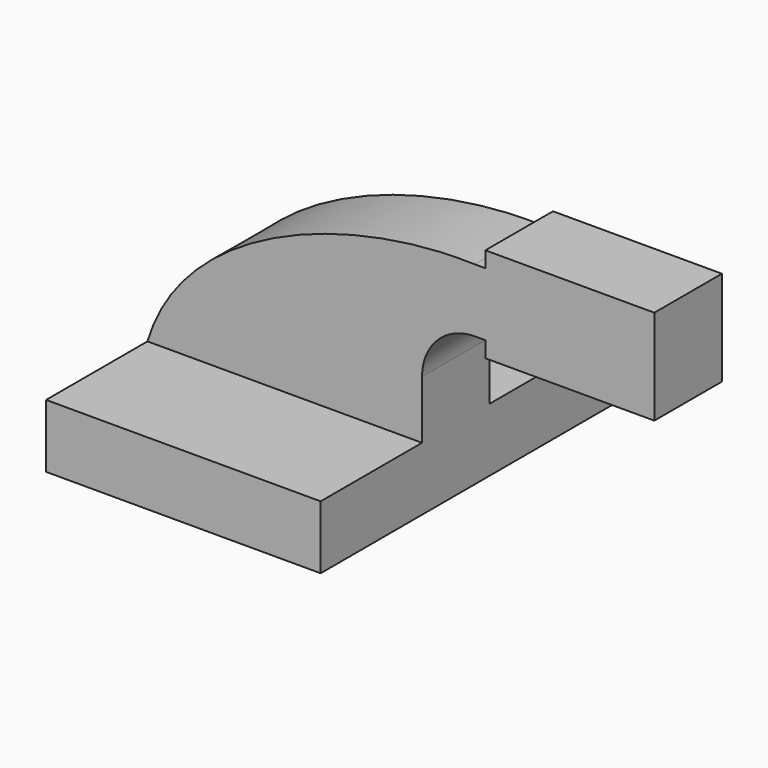
from build123d import *

# Parameters (mm, degrees)
F1_DEPTH = 63.5
F0_W     = 25.4
F0_H     = 19.05
F0_H_2   = 4.7498
F0_H_3   = 4.7752
F2_DEPTH = 25.4


with BuildPart() as f1:
    # F0 (on Front) → F1 (new body, symmetric)
    with BuildSketch(Plane.XZ):
        Polygon((22.225, 9.525), (-41.275, 9.525), (-41.275, -9.525), (41.275, -9.525), (41.275, 9.525), align=None)
    extrude(amount=F1_DEPTH, both=True)

    # F0 (on Front) → F2 (join)
    with BuildSketch(Plane.XZ):
        with BuildLine():
            add(Edge.make_bspline(
                [(-41.275, 9.525), (-30.735053122, 45.2934391797), (18.677836284, 63.122831285), (57.15, 61.9252)],
                knots=[0, 0, 0, 0, 111.5045361635, 111.5045361635, 111.5045361635, 111.5045361635], degree=3))
            Line((-41.275, 9.525), (22.225, 9.525))
            Line((22.225, 9.525), (22.225, 27.0002))
            ThreePointArc((22.225, 27.0002), (32.4542956671, 51.6959043329), (57.15, 61.9252))
        make_face()
        Polygon((22.225, 9.525), (-41.275, 9.525), (-41.275, -9.525), (41.275, -9.525), (41.275, 9.525), align=None)
        with BuildLine():
            Line((22.225, 27.0002), (22.225, 9.525))
            Line((22.225, 9.525), (41.275, 9.525))
            Line((41.275, 9.525), (41.275, 27.0002))
            ThreePointArc((41.275, 27.0002), (45.9246798487, 38.2255201513), (57.15, 42.8752))
            Line((57.15, 42.8752), (60.325, 42.8752))
            Line((60.325, 42.8752), (60.325, 61.9252))
            Line((60.325, 61.9252), (57.15, 61.9252))
            ThreePointArc((57.15, 61.9252), (32.4542956671, 51.6959043329), (22.225, 27.0002))
        make_face()
        with Locations((73.025, 52.4002)):
            Rectangle(F0_W, F0_H)
        with Locations((73.025, 64.3001)):
            Rectangle(F0_W, F0_H_2)
        with Locations((73.025, 40.4876)):
            Rectangle(F0_W, F0_H_3)
        Polygon((85.725, 66.675), (85.725, 61.9252), (85.725, 42.8752), (85.725, 38.1), (111.125, 38.1), (111.125, 66.675), align=None)
    extrude(amount=F2_DEPTH)


solid = f1.part
